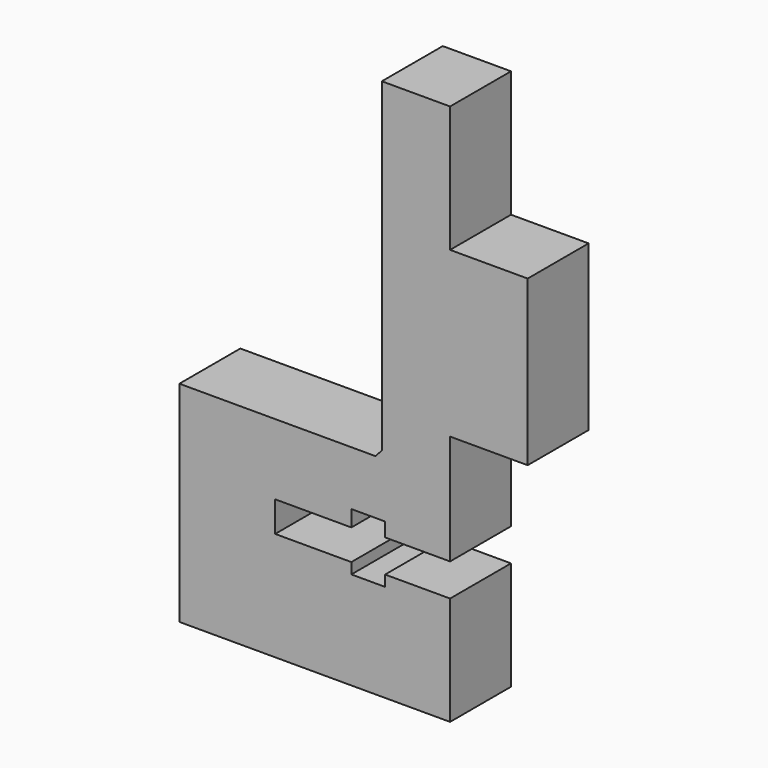
from build123d import *

# Parameters (mm, degrees)
F1_DEPTH = 7


with BuildPart() as f1:
    # F0 (on Front) → F1 (new body)
    with BuildSketch(Plane.XZ):
        Polygon((-8.290611, 55.949569), (-14.560611, 55.949569), (-14.560611, 26.091313), (-15.139798, 25.439247), (-33.160611, 25.439247), (-33.160611, 6.169569), (-8.290611, 6.169569), (-8.290611, 16.149569), (-14.260611, 16.149569), (-14.260611, 15.149569), (-17.360611, 15.149569), (-17.360611, 16.149569), (-24.360611, 16.149569), (-24.360611, 18.949569), (-17.360611, 18.949569), (-17.360611, 20.439569), (-14.260611, 20.439569), (-14.260611, 19.149569), (-8.290611, 19.149569), (-8.290611, 29.249569), (-1.160611, 29.249569), (-1.160611, 44.349569), (-8.290611, 44.349569), align=None)
    extrude(amount=F1_DEPTH)


solid = f1.part
